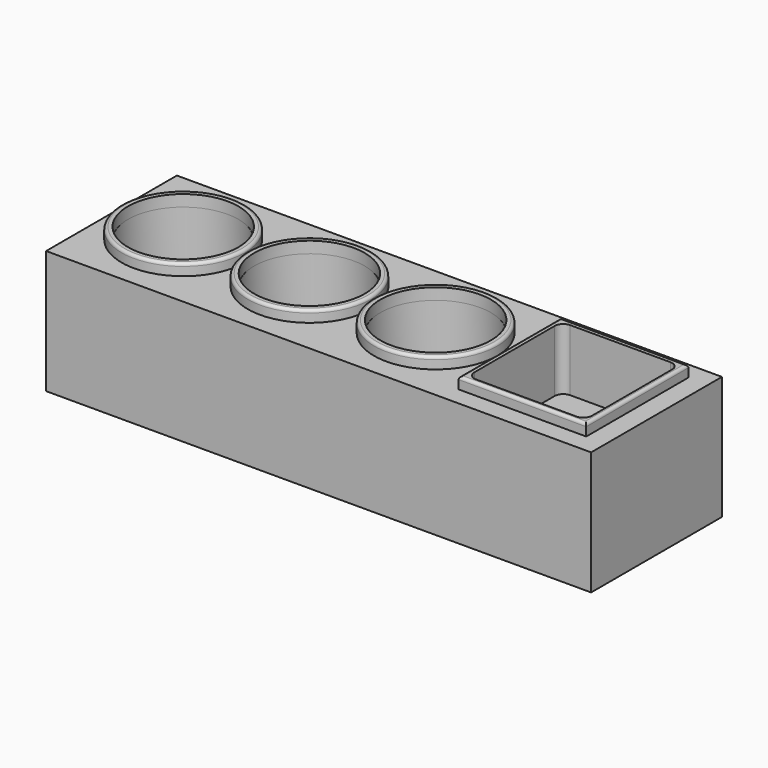
from build123d import *

# Parameters (mm, degrees)
SKETCH_W      = 190
SKETCH_H      = 57
PAD_DEPTH     = 43
SKETCH001_R   = 19.5
SKETCH001_W   = 41
SKETCH001_H   = 41
POCKET_DEPTH  = 17.5
SKETCH002_R   = 21.5
SKETCH002_R_2 = 19.268398
SKETCH002_W   = 44.5
SKETCH002_H   = 44.5
SKETCH002_W_2 = 41
SKETCH002_H_2 = 41
PAD001_DEPTH  = 4
FILLET_R      = 1
FILLET001_R   = 3


with BuildPart() as part:
    # Sketch → Pad (new body)
    with BuildSketch(Plane.XY):
        Rectangle(SKETCH_W, SKETCH_H)
    extrude(amount=PAD_DEPTH)

    # Sketch001 (on Face6 of Pad) → Pocket (cut)
    with BuildSketch(Plane.XY.offset(43)):
        with Locations((-70, 0)):
            Circle(SKETCH001_R)
        with Locations((-26, 0)):
            Circle(SKETCH001_R)
        with Locations((18, 0)):
            Circle(SKETCH001_R)
        with Locations((66, 0)):
            Rectangle(SKETCH001_W, SKETCH001_H)
    extrude(amount=-POCKET_DEPTH, mode=Mode.SUBTRACT)

    # Sketch002 (on Face5 of Pocket) → Pad001 (join)
    with BuildSketch(Plane.XY.offset(43)):
        with Locations((-70, 0)):
            Circle(SKETCH002_R)
        with Locations((-70, 0)):
            Circle(SKETCH002_R_2, mode=Mode.SUBTRACT)
        with Locations((-26, 0)):
            Circle(SKETCH002_R)
        with Locations((-26, 0)):
            Circle(SKETCH002_R_2, mode=Mode.SUBTRACT)
        with Locations((18, 0)):
            Circle(SKETCH002_R)
        with Locations((18, 0)):
            Circle(SKETCH002_R_2, mode=Mode.SUBTRACT)
        with Locations((65.887117, 0.207737)):
            Rectangle(SKETCH002_W, SKETCH002_H)
        with Locations((66, 0)):
            Rectangle(SKETCH002_W_2, SKETCH002_H_2, mode=Mode.SUBTRACT)
    extrude(amount=PAD001_DEPTH)

    # Fillet
    fillet_edges = [part.edges().sort_by_distance(p)[0] for p in [
        (-91.5, 0, 47),
        (-47.5, 0, 47),
        (-3.5, 0, 47),
        (65.887117, -22.042263, 47),
        (88.137117, 0.207737, 47),
        (65.887117, 22.457737, 47),
        (43.637117, 0.207737, 47),
    ]]
    fillet(fillet_edges, radius=FILLET_R)

    # Fillet001
    fillet001_edges = [part.edges().sort_by_distance(p)[0] for p in [
        (45.5, -20.5, 34.25),
        (45.5, -20.5, 45),
        (45.5, 20.5, 34.25),
        (45.5, 20.5, 45),
        (86.5, 20.5, 34.25),
        (86.5, -20.5, 34.25),
        (86.5, -20.5, 45),
        (86.5, 20.5, 45),
    ]]
    fillet(fillet001_edges, radius=FILLET001_R)


solid = part.part
